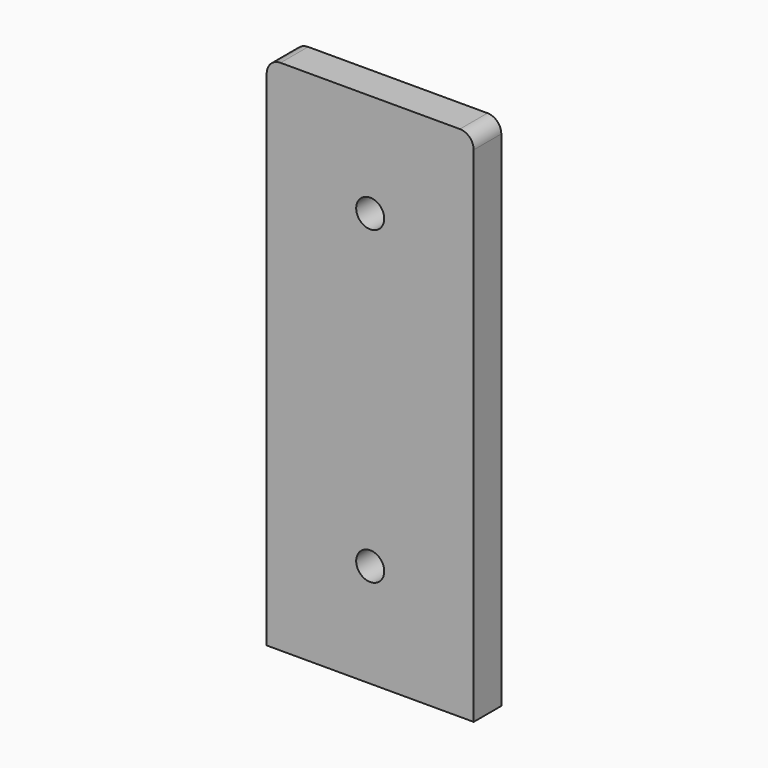
from build123d import *

# Parameters (mm, degrees)
F0_W     = 152.4
F0_H     = 381
F0_R     = 10.31875
F1_DEPTH = 25.4
F2_R     = 10.16


with BuildPart() as f1:
    # F0 (on Front) → F1 (new body)
    with BuildSketch(Plane.XZ):
        Rectangle(F0_W, F0_H)
        with Locations((0, -114.3)):
            Circle(F0_R, mode=Mode.SUBTRACT)
        with Locations((0, 114.3)):
            Circle(F0_R, mode=Mode.SUBTRACT)
    extrude(amount=F1_DEPTH)

    # F2
    f2_edges = [f1.edges().sort_by_distance(p)[0] for p in [
        (-76.2, -12.7, 190.5),
        (76.2, -12.7, 190.5),
    ]]
    fillet(f2_edges, radius=F2_R)


solid = f1.part
